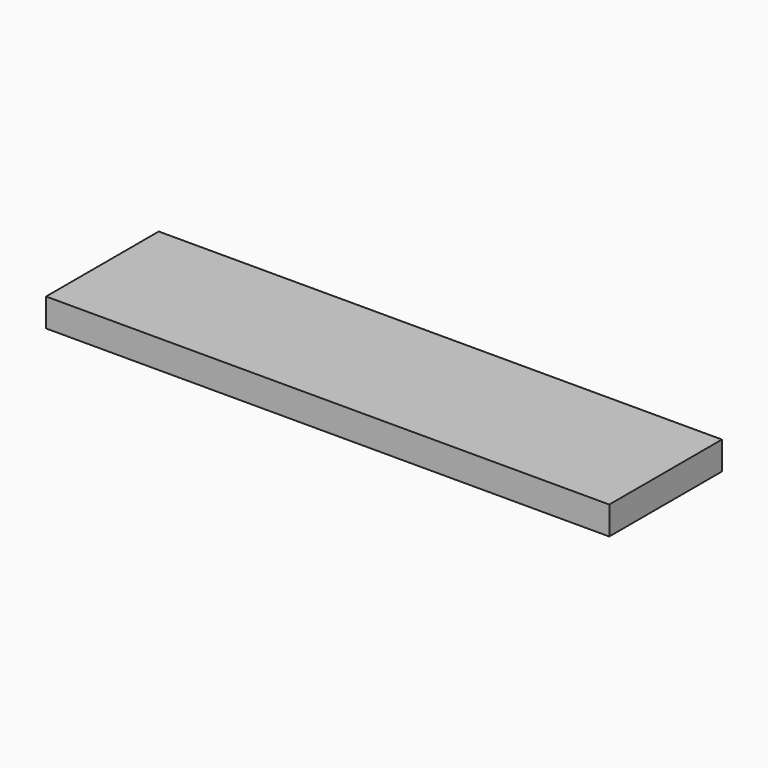
from build123d import *

# Parameters (mm, degrees)
F0_W     = 4000
F0_H     = 1000
F1_DEPTH = 100
F2_DEPTH = 100


with BuildPart() as f1:
    # F0 (on Top) → F1 (new body)
    with BuildSketch(Plane.XY):
        Rectangle(F0_W, F0_H)
    extrude(amount=F1_DEPTH)

    # F0 (on Top) → F2 (join)
    with BuildSketch(Plane.XY):
        Rectangle(F0_W, F0_H)
    extrude(amount=-F2_DEPTH)


solid = f1.part
